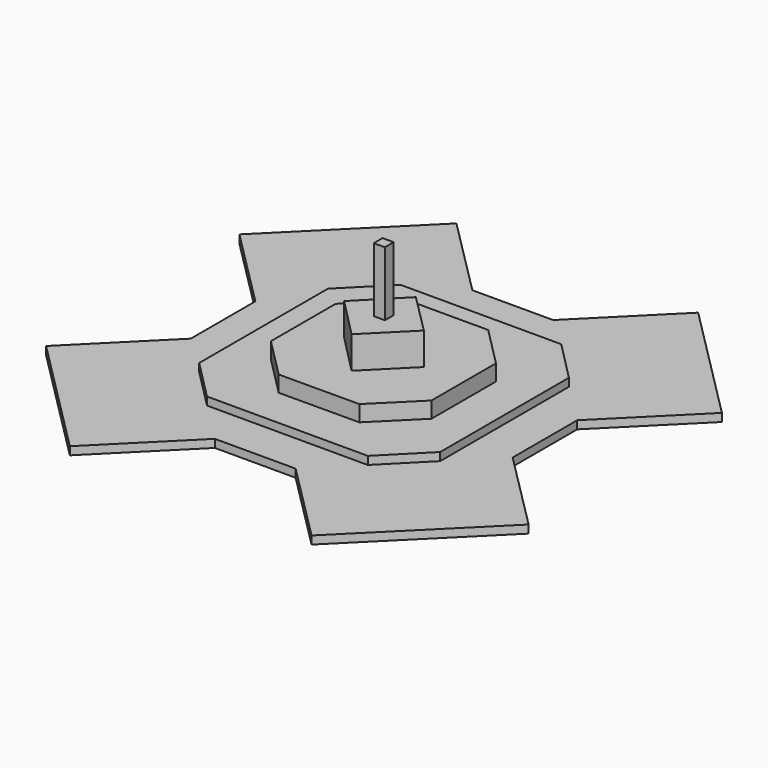
from build123d import *

# Parameters (mm, degrees)
F0_W     = 7.026562
F0_H     = 6.945758
F1_DEPTH = 81.28
F3_DEPTH = 40.64
F5_DEPTH = 20.32
F7_DEPTH = 10.16
F9_DEPTH = 5.08


with BuildPart() as f1:
    # F0 (on Top) → F1 (new body)
    with BuildSketch(Plane.XY):
        Rectangle(F0_W, F0_H)
    extrude(amount=F1_DEPTH)

    # F2 (on Top) → F3 (join)
    with BuildSketch(Plane.XY):
        Polygon((0, 25.393864), (-25.020789, 0), (0, -25.393864), (25.393864, 0), align=None)
    extrude(amount=F3_DEPTH)

    # F4 (on Top) → F5 (join)
    with BuildSketch(Plane.XY):
        Polygon((25.43629, 50.779495), (0, 50.779495), (-25.430322, 50.779495), (-50.833207, 25.546703), (-50.833207, 0), (-50.833207, -25.586797), (-25.600415, -50.989682), (25.266197, -50.819589), (50.669082, -25.586797), (50.669082, 25.37661), align=None)
    extrude(amount=F5_DEPTH)

    # F6 (on Top) → F7 (join)
    with BuildSketch(Plane.XY):
        Polygon((76.233596, -50.651934), (76.233596, 51.060922), (50.894871, 76.66897), (0, 76.66897), (-50.771996, 76.66897), (-76.126471, 51.060922), (-76.126471, -50.651934), (-50.771996, -76.197065), (0, -76.197065), (50.894871, -76.197065), align=None)
    extrude(amount=F7_DEPTH)

    # F8 (on Top) → F9 (join)
    with BuildSketch(Plane.XY):
        Polygon((-25.513835, -101.515338), (0, -101.515338), (25.52755, -101.515338), (76.299801, -152.375132), (152.654715, -76.282322), (101.746045, -25.306873), (101.746045, 25.734512), (152.605839, 76.506764), (76.51303, 152.861677), (25.53758, 101.953007), (-25.503805, 101.953007), (-76.276056, 152.812801), (-152.63097, 76.719992), (-101.7223, 25.744542), (-101.7223, -25.296843), (-152.582094, -76.069094), (-76.489285, -152.424008), align=None)
    extrude(amount=F9_DEPTH)


solid = f1.part
